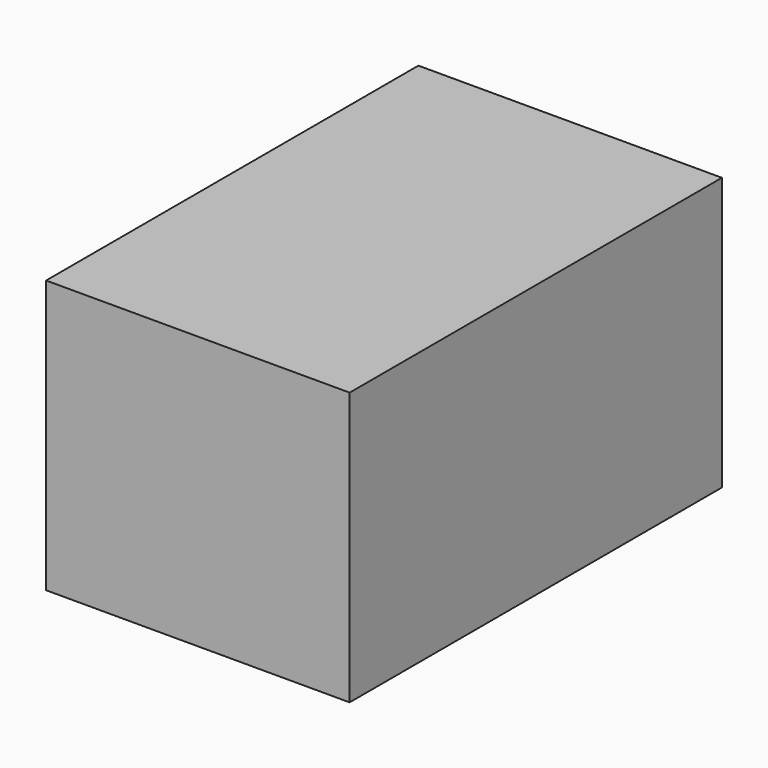
from build123d import *

# Parameters (mm, degrees)
F0_W     = 41.9453158975
F0_H     = 37.6796908677
F1_DEPTH = 64.3
F2_T     = -2.5


with BuildPart() as f1:
    # F0 (on Front) → F1 (new body)
    with BuildSketch(Plane.XZ):
        with Locations((-20.9726579487, 18.8398454338)):
            Rectangle(F0_W, F0_H)
    extrude(amount=F1_DEPTH)

    # F2 (hollow: no face is removed)
    offset(amount=F2_T, mode=Mode.SUBTRACT)


solid = f1.part
